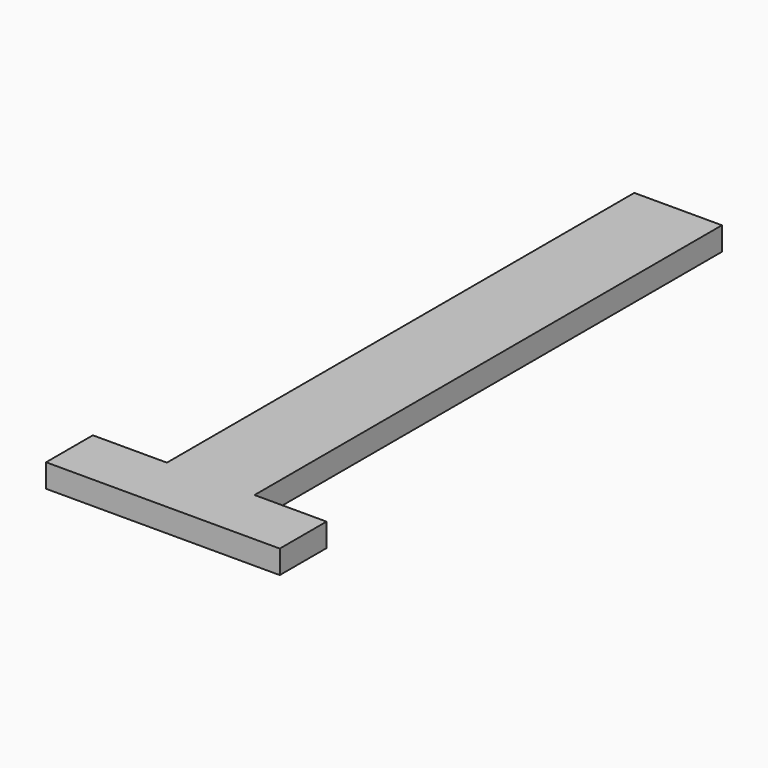
from build123d import *

# Parameters (mm, degrees)
F0_W     = 3.81
F0_H     = 25.4
F1_DEPTH = 1.016


with BuildPart() as f1:
    # F0 (on Top) → F1 (new body)
    with BuildSketch(Plane.XY):
        with Locations((-14.708808, 8.513233)):
            Rectangle(F0_W, F0_H)
        Polygon((-12.803808, -4.186767), (-16.613808, -4.186767), (-19.8351, -4.186767), (-19.8351, -6.726767), (-9.6751, -6.726767), (-9.6751, -4.186767), align=None)
    extrude(amount=F1_DEPTH)


solid = f1.part
